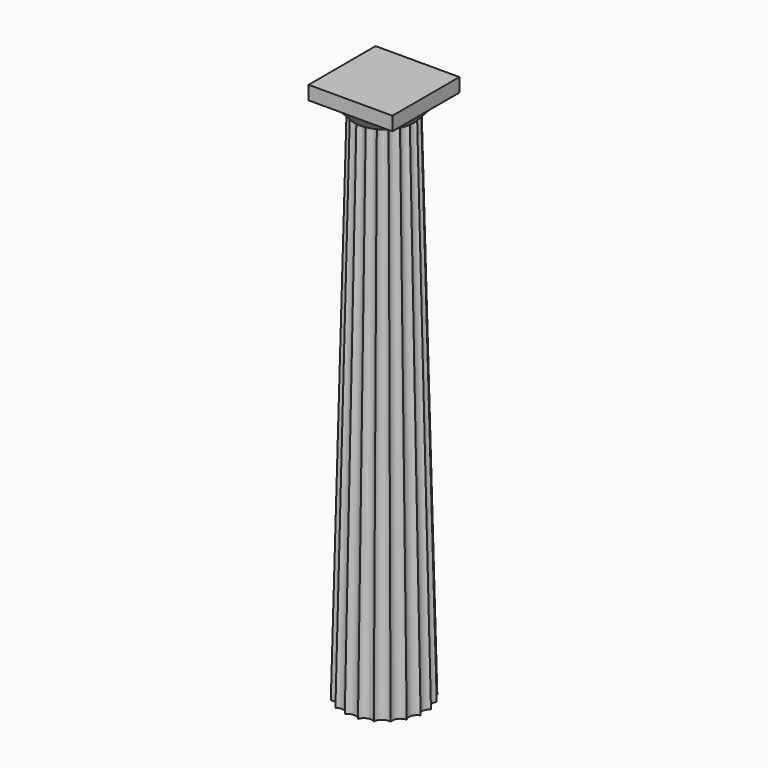
from build123d import *

# Parameters (mm, degrees)
F1_R      = 50
F2_DEPTH  = 5710
F8_R      = 464.5025
F6_R      = 327.9178677151
F10_W     = 929.005
F10_H     = 929.005
F11_DEPTH = 152.4


with BuildPart() as f2:
    # F1 (on face) → F2 (new body)
    with BuildSketch(Plane.XY):
        with Locations((-241.7985647917, -595.5741405487)):
            Circle(F1_R)
    extrude(amount=F2_DEPTH)


with BuildPart() as f5:
    # F4 (on offset) → F5 section 0
    with BuildSketch(Plane.XY.offset(5712.54)):
        with BuildLine():
            ThreePointArc((82.6085809515, -643.4294616488), (55.4466731348, -592.4173741574), (81.5190725913, -540.8399343891))
            ThreePointArc((81.5190725913, -540.8399343891), (39.9229612138, -500.7180472855), (48.7809811976, -443.6081725838))
            ThreePointArc((48.7809811976, -443.6081725838), (-3.1776165419, -418.3038957235), (-12.4010607443, -361.2518985322))
            ThreePointArc((-12.4010607443, -361.2518985322), (-69.6360752822, -353.2421908394), (-96.0381286887, -301.8327181482))
            ThreePointArc((-96.0381286887, -301.8327181482), (-152.9469980223, -311.9016256189), (-193.9432436916, -271.1669948055))
            ThreePointArc((-193.9432436916, -271.1669948055), (-244.955331183, -298.3289026223), (-296.5327709513, -272.2565031657))
            ThreePointArc((-296.5327709513, -272.2565031657), (-336.6546580548, -313.8526145432), (-393.7645327565, -304.9945945594))
            ThreePointArc((-393.7645327565, -304.9945945594), (-393.7492868459, -305.7930100504), (-393.7442046012, -306.5915549174))
            ThreePointArc((-393.7442046012, -306.5915549174), (-419.7128558258, -357.4253196278), (-476.1208068082, -366.1766365013))
            ThreePointArc((-476.1208068082, -366.1766365013), (-473.4397179136, -376.4739586196), (-472.537369413, -387.0762625037))
            ThreePointArc((-472.537369413, -387.0762625037), (-491.0065595478, -431.5321858111), (-535.5399871922, -449.8137044457))
            ThreePointArc((-535.5399871922, -449.8137044457), (-525.9251935326, -467.8251960906), (-522.6029798153, -487.9701950831))
            ThreePointArc((-522.6029798153, -487.9701950831), (-534.6627538789, -524.953624615), (-566.2057105349, -547.7188194486))
            ThreePointArc((-566.2057105349, -547.7188194486), (-546.2453578162, -570.2054941972), (-539.0402650343, -599.3971515655))
            ThreePointArc((-539.0402650343, -599.3971515655), (-545.9384891407, -627.9974325458), (-565.1162021747, -650.3083467084))
            ThreePointArc((-565.1162021747, -650.3083467083), (-532.6956053929, -672.930364835), (-520.2402290675, -710.449885093))
            ThreePointArc((-520.2402290675, -710.449885093), (-523.3518638208, -729.9627836852), (-532.378110781, -747.5401085136))
            ThreePointArc((-532.378110781, -747.5401085136), (-486.9869353651, -765.3342523192), (-468.0431504229, -810.2577803582))
            ThreePointArc((-468.0431504229, -810.2577803582), (-468.8363948241, -820.2028242393), (-471.1960688391, -829.8963825652))
            ThreePointArc((-471.1960688391, -829.8963825652), (-414.0689953151, -837.8295757031), (-387.5584428367, -889.05094517))
            ThreePointArc((-387.5584428367, -889.05094517), (-387.5585823513, -889.1832543539), (-387.5590008947, -889.3155629493))
            ThreePointArc((-387.5590008947, -889.3155629493), (-330.6501315611, -879.2466554785), (-289.6538858918, -919.9812862919))
            ThreePointArc((-289.6538858918, -919.9812862919), (-238.6417984004, -892.8193784752), (-187.064358632, -918.8917779317))
            ThreePointArc((-187.064358632, -918.8917779317), (-146.9424715285, -877.2956665542), (-89.8325968268, -886.153686538))
            ThreePointArc((-89.8325968268, -886.153686538), (-64.5283199665, -834.1950887985), (-7.4763227751, -824.9716445961))
            ThreePointArc((-7.4763227751, -824.9716445961), (0.5333849176, -767.7366300582), (51.9428576089, -741.3345766517))
            ThreePointArc((51.9428576089, -741.3345766517), (41.8739501382, -684.4257073181), (82.6085809515, -643.4294616488))
        make_face()
    # F0 (on Top) → F5 section 1
    with BuildSketch(Plane.XY):
        with BuildLine():
            ThreePointArc((217.7307352444, -663.3621136576), (179.277690131, -591.1022200019), (216.1874245599, -518.0419680587))
            ThreePointArc((216.1874245599, -518.0419680587), (157.2868702821, -461.2013697562), (169.8132542617, -380.3112058671))
            ThreePointArc((169.8132542617, -380.3112058671), (96.2307874564, -344.4538567113), (83.1476512463, -263.6518737126))
            ThreePointArc((83.1476512463, -263.6518737126), (2.0860364438, -252.2877408718), (-35.3259514283, -179.4833998399))
            ThreePointArc((-35.3259514283, -179.4833998399), (-115.9318385818, -193.7248838151), (-174.0105320782, -136.044780908))
            ThreePointArc((-174.0105320782, -136.044780908), (-246.2704257338, -174.4978260214), (-319.330677677, -137.5880915925))
            ThreePointArc((-319.330677677, -137.5880915925), (-376.1712759795, -196.4886458703), (-457.0614398687, -183.9622618907))
            ThreePointArc((-457.0614398687, -183.9622618907), (-457.0406511287, -185.0720867353), (-457.0337211885, -186.1820846331))
            ThreePointArc((-457.0337211885, -186.1820846331), (-493.8139496004, -258.2011057983), (-573.7207720232, -270.6278649061))
            ThreePointArc((-573.7207720232, -270.6278649061), (-569.932364408, -285.1998152046), (-568.6573713385, -300.2020870469))
            ThreePointArc((-568.6573713385, -300.2020870469), (-594.8130235777, -363.1811059665), (-657.8892458958, -389.1014675807))
            ThreePointArc((-657.8892458958, -389.1014675807), (-644.284327422, -414.6100181367), (-639.5836527418, -443.1351582011))
            ThreePointArc((-639.5836527418, -443.1351582011), (-656.6597028867, -495.5234224139), (-701.3278648277, -527.7860482305))
            ThreePointArc((-701.3278648278, -527.7860482305), (-673.0694299239, -559.6443885492), (-662.8698068021, -600.9900132178))
            ThreePointArc((-662.8698068021, -600.9900132178), (-672.6347988683, -641.4975497921), (-699.7845541433, -673.1061938294))
            ThreePointArc((-699.7845541433, -673.1061938294), (-653.8728585496, -705.1666762733), (-636.2364225158, -758.3147190485))
            ThreePointArc((-636.2364225158, -758.3147190485), (-640.6389230326, -785.9440979971), (-653.410383845, -810.8369560211))
            ThreePointArc((-653.410383845, -810.8369560211), (-589.1185555035, -836.0674576604), (-562.2905611026, -899.7092373409))
            ThreePointArc((-562.2905611026, -899.7092373409), (-563.4111789384, -913.7801316574), (-566.7447808297, -927.4962881755))
            ThreePointArc((-566.7447808297, -927.4962881755), (-485.8185302397, -938.7644427359), (-448.2705586888, -1011.3328874909))
            ThreePointArc((-448.2705586888, -1011.3328874909), (-448.2707135555, -1011.4988250586), (-448.2711781551, -1011.6647620482))
            ThreePointArc((-448.2711781551, -1011.6647620482), (-367.6652910016, -997.423278073), (-309.5865975052, -1055.1033809801))
            ThreePointArc((-309.5865975052, -1055.1033809801), (-237.3267038496, -1016.6503358667), (-164.2664519063, -1053.5600702956))
            ThreePointArc((-164.2664519063, -1053.5600702956), (-107.4258536038, -994.6595160178), (-26.5356897147, -1007.1858999974))
            ThreePointArc((-26.5356897147, -1007.1858999974), (9.3216594411, -933.6034331922), (90.1236424398, -920.520296982))
            ThreePointArc((90.1236424398, -920.520296982), (101.4877752806, -839.4586821795), (174.2921163125, -802.0466943075))
            ThreePointArc((174.2921163125, -802.0466943075), (160.0506323373, -721.440807154), (217.7307352444, -663.3621136576))
        make_face()
    loft()

    # F8 (on offset) → F9 section 0
    with BuildSketch(Plane.XY.offset(5864.94)):
        with Locations((-241.2558197975, -597.0259308815)):
            Circle(F8_R)
    # F6 (on offset) → F9 section 1
    with BuildSketch(Plane.XY.offset(5712.54)):
        with Locations((-241.7985647917, -595.5741405487)):
            Circle(F6_R)
    loft()

    # F10 (on offset) → F11 (join)
    with BuildSketch(Plane.XY.offset(5864.94)):
        with Locations((-241.2558197975, -597.0259308815)):
            Rectangle(F10_W, F10_H)
    extrude(amount=F11_DEPTH)


solid = Compound([f2.part, f5.part])
